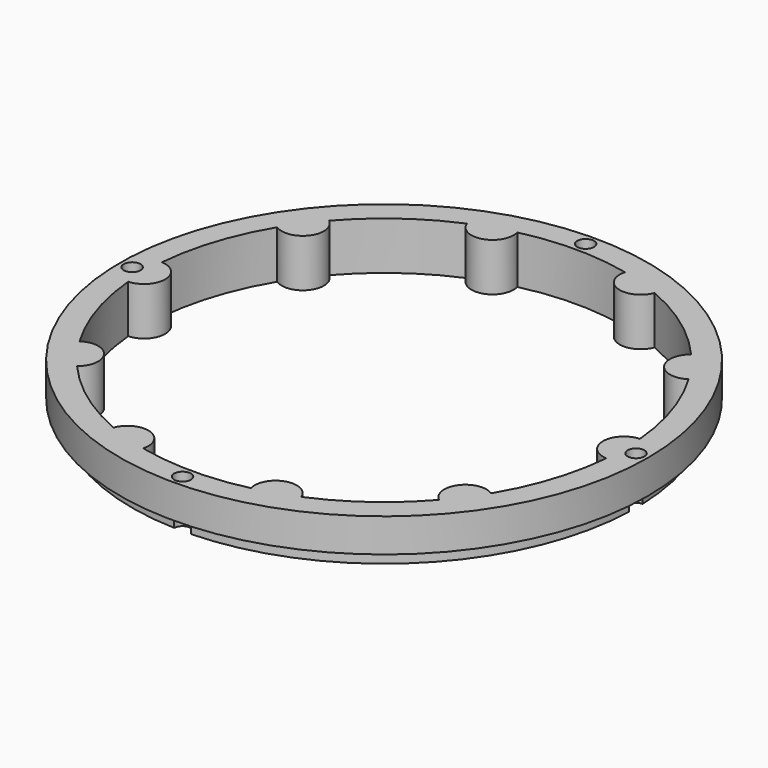
from build123d import *

# Parameters (mm, degrees)
SKETCH039_R             = 55
PAD008_DEPTH            = 10
POLARPATTERN003_COUNT   = 10
SKETCH040_R             = 55
SKETCH040_R_2           = 52.5
POCKET019_DEPTH         = 3
SKETCH041_R             = 1.75
POCKET020_DEPTH         = 321.770146
POCKET020_DEPTH_BACK    = 311.770146
POLARPATTERN004_COUNT   = 4
BODY002_PLACEMENT_ANGLE = 90


with BuildPart() as part:
    # Sketch039 → Pad008 (new body)
    with BuildSketch(Plane.XZ):
        Circle(SKETCH039_R)
        with BuildLine():
            ThreePointArc((49.807718, 4.380782), (-50, 0), (49.807718, -4.380782))
            ThreePointArc((49.807718, 4.380782), (45.615, 0), (49.807718, -4.380782))
        make_face(mode=Mode.SUBTRACT)
    pad008 = extrude(amount=PAD008_DEPTH)

    # PolarPattern003: Pad008 ×10 about axis
    polarpattern003_axis = Axis((0, 0, 0), (0, -1, 0))
    for i in range(1, POLARPATTERN003_COUNT):
        add(pad008.rotate(polarpattern003_axis, i * 360 / POLARPATTERN003_COUNT))

    # Sketch040 (on DatumPlane) → Pocket019 (cut)
    with BuildSketch(Plane.XZ.offset(10)):
        Circle(SKETCH040_R)
        Circle(SKETCH040_R_2, mode=Mode.SUBTRACT)
    extrude(amount=-POCKET019_DEPTH, mode=Mode.SUBTRACT)

    # Sketch041 (on DatumPlane) → Pocket020 (cut, two sides)
    with BuildSketch(Plane.XZ.offset(10)) as pocket020_sk:
        with Locations((52.5, 0)):
            Circle(SKETCH041_R)
    pocket020 = extrude(amount=-POCKET020_DEPTH, mode=Mode.SUBTRACT) + extrude(pocket020_sk.sketch, amount=POCKET020_DEPTH_BACK, mode=Mode.SUBTRACT)

    # PolarPattern004: Pocket020 ×4 about axis
    polarpattern004_axis = Axis((0, -10, 0), (0, -1, 0))
    for i in range(1, POLARPATTERN004_COUNT):
        add(pocket020.rotate(polarpattern004_axis, i * 360 / POLARPATTERN004_COUNT), mode=Mode.SUBTRACT)


with BuildPart() as part_1:
    # Body002 placement: moved
    add(part.part.moved(Location((-1.52, 0, 16))).rotate(Axis((-1.52, 0, 16), (1, 0, 0)), BODY002_PLACEMENT_ANGLE))


solid = part_1.part
